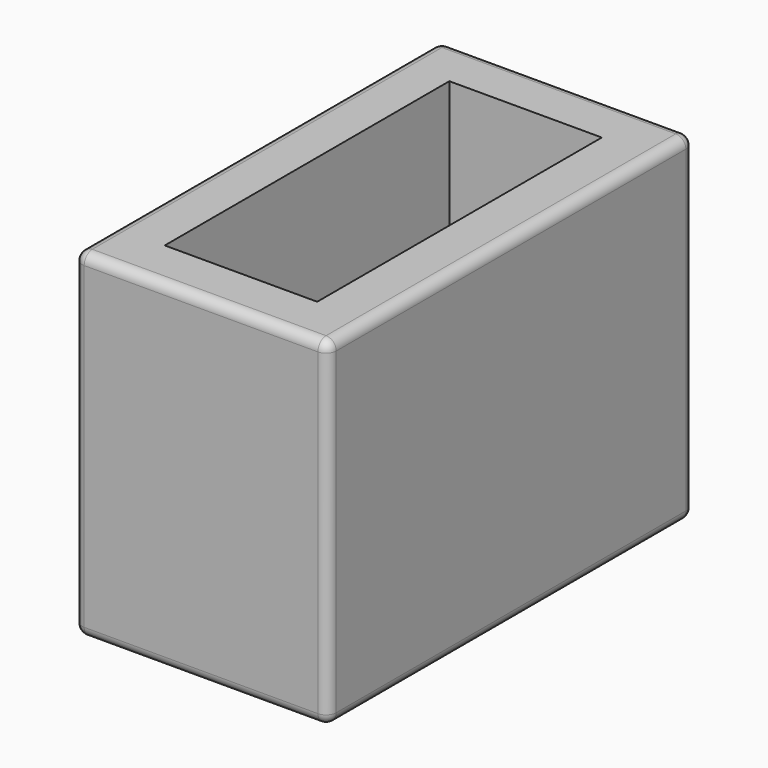
from build123d import *

# Parameters (mm, degrees)
BOX_W        = 7.5
BOX_H        = 13.5
BOX_DEPTH    = 10
FILLET_R     = 0.3
SKETCH_W     = 4.5
SKETCH_H     = 10.5
POCKET_DEPTH = 10


with BuildPart() as part:
    # Box → Box (new body)
    with BuildSketch(Plane.XY):
        with Locations((3.75, 6.75)):
            Rectangle(BOX_W, BOX_H)
    extrude(amount=BOX_DEPTH)

    # Fillet
    fillet_edges = [part.edges().sort_by_distance(p)[0] for p in [
        (0, 0, 5),
        (0, 6.75, 10),
        (0, 13.5, 5),
        (0, 6.75, 0),
        (7.5, 0, 5),
        (7.5, 6.75, 10),
        (7.5, 13.5, 5),
        (7.5, 6.75, 0),
        (3.75, 0, 0),
        (3.75, 0, 10),
        (3.75, 13.5, 0),
        (3.75, 13.5, 10),
    ]]
    fillet(fillet_edges, radius=FILLET_R)

    # Sketch (on Face6 of Box) → Pocket (cut)
    with BuildSketch(Plane.XY.offset(10)):
        with Locations((3.733011, 6.744313)):
            Rectangle(SKETCH_W, SKETCH_H)
    extrude(amount=-POCKET_DEPTH, mode=Mode.SUBTRACT)


solid = part.part
